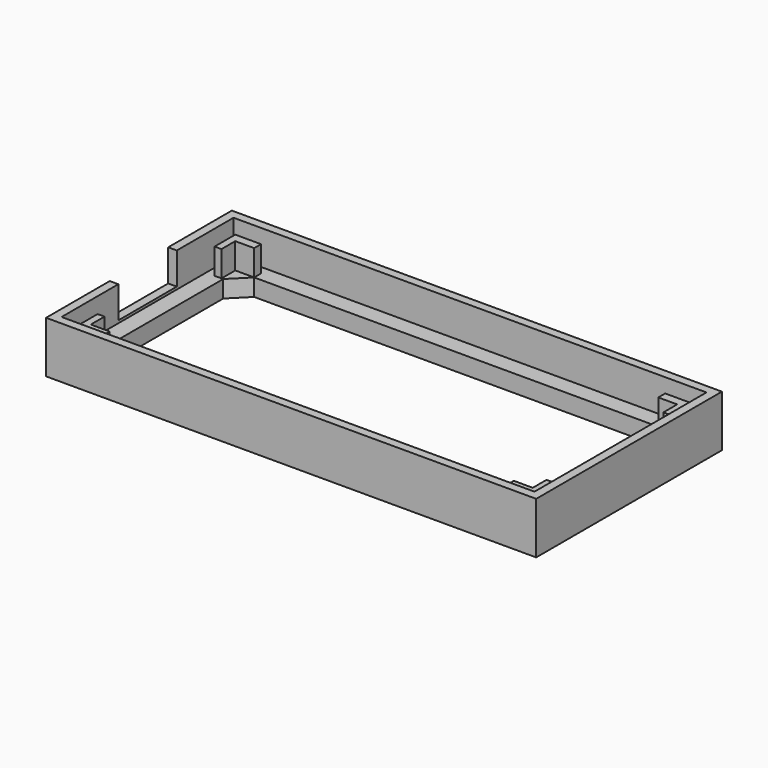
from build123d import *

# Parameters (mm, degrees)
SKETCH_W                = 57
SKETCH_H                = 27
PAD_DEPTH               = 2
PAD001_DEPTH            = 3
PAD001_MIRRORED_2_DEPTH = 3
POCKET_DEPTH            = 2
SKETCH003_W             = 57
SKETCH003_H             = 27
SKETCH003_W_2           = 55
SKETCH003_H_2           = 25
PAD002_DEPTH            = 4
SKETCH004_W             = 1
SKETCH004_H             = 8.5
POCKET001_DEPTH         = 3.7


with BuildPart() as part:
    # Sketch → Pad (new body)
    with BuildSketch(Plane.XY):
        Rectangle(SKETCH_W, SKETCH_H)
    extrude(amount=PAD_DEPTH)

    # Sketch001 (on Face6 of Pad) → Pad001 (join)
    with BuildSketch(Plane.XY.offset(2)):
        Polygon((-26.5, 11.5), (-23.5, 11.5), (-23.5, 10.5), (-25.7, 10.5), (-25.7, 8.5), (-26.5, 8.5), align=None)
    pad001 = extrude(amount=PAD001_DEPTH)

    # Sketch001 Mirrored 2 → Pad001 Mirrored 2 (add)
    with BuildSketch(Plane(origin=(0, 0, 2), x_dir=(-1, 0, 0), z_dir=(0, 0, -1))):
        Polygon((-26.5, 11.5), (-23.5, 11.5), (-23.5, 10.5), (-25.7, 10.5), (-25.7, 8.5), (-26.5, 8.5), align=None)
    pad001_mirrored_2 = extrude(amount=-PAD001_MIRRORED_2_DEPTH)

    # Mirrored001: Pad001, Pad001 Mirrored 2 across Sketch001 H_Axis
    add(pad001.mirror(Plane(origin=(0, 0, 2), x_dir=(0, 0, 1), z_dir=(0, 1, 0))))
    add(pad001_mirrored_2.mirror(Plane(origin=(0, 0, 2), x_dir=(0, 0, 1), z_dir=(0, 1, 0))))

    # Sketch002 (on Face5 of MultiTransform) → Pocket (cut)
    with BuildSketch(Plane.XY.offset(2)):
        Polygon((23.5, 10.5), (25.5, 8.5), (25.5, -8.5), (23.5, -10.5), (-23.5, -10.5), (-25.5, -8.5), (-25.5, 8.5), (-23.5, 10.5), align=None)
    extrude(amount=-POCKET_DEPTH, mode=Mode.SUBTRACT)

    # Sketch003 (on Face5 of Pocket) → Pad002 (join)
    with BuildSketch(Plane.XY.offset(2)):
        Rectangle(SKETCH003_W, SKETCH003_H)
        Rectangle(SKETCH003_W_2, SKETCH003_H_2, mode=Mode.SUBTRACT)
    extrude(amount=PAD002_DEPTH)

    # Sketch004 (on Face17 of Pad002) → Pocket001 (cut)
    with BuildSketch(Plane.XY.offset(6)):
        with Locations((-28, 0)):
            Rectangle(SKETCH004_W, SKETCH004_H)
    extrude(amount=-POCKET001_DEPTH, mode=Mode.SUBTRACT)


solid = part.part
